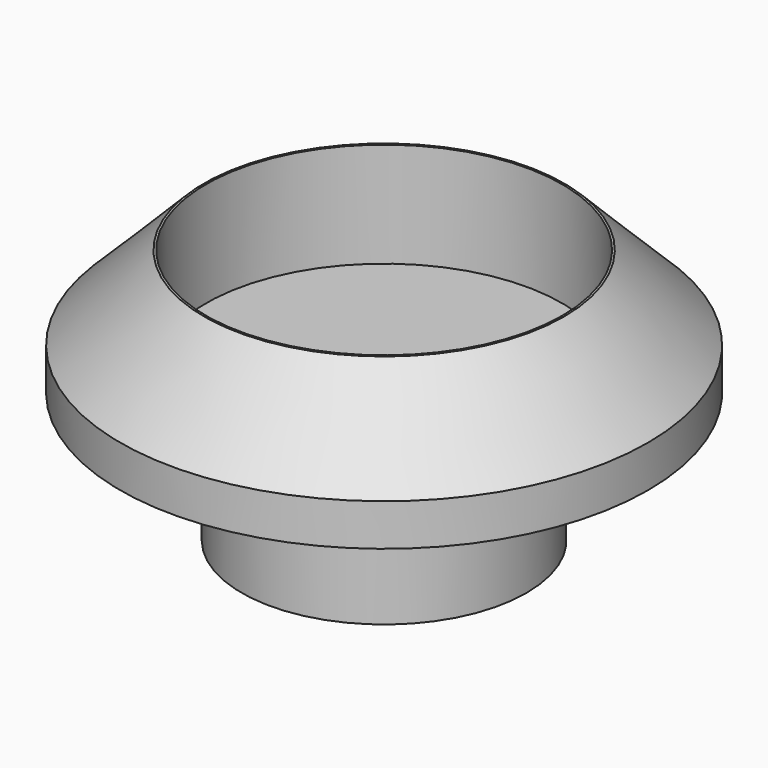
from build123d import *

# Parameters (mm, degrees)
F0_R     = 3.4
F1_DEPTH = 3.1
F2_R     = 6.3
F3_DEPTH = 3
F4_SIZE  = 2
F5_R     = 4.25
F6_DEPTH = 2.5


with BuildPart() as f1:
    # F0 (on Top) → F1 (new body)
    with BuildSketch(Plane.XY):
        Circle(F0_R)
    extrude(amount=F1_DEPTH)

    # F2 (on face) → F3 (join)
    with BuildSketch(Plane.XY.offset(3.1)):
        Circle(F2_R)
    extrude(amount=F3_DEPTH)

    # F4
    f4_edges = [f1.edges().sort_by_distance(p)[0] for p in [
        (-6.3, 0, 6.1),
    ]]
    chamfer(f4_edges, length=F4_SIZE)

    # F5 (on face) → F6 (cut)
    with BuildSketch(Plane.XY.offset(6.1)):
        Circle(F5_R)
    extrude(amount=-F6_DEPTH, mode=Mode.SUBTRACT)


solid = f1.part
